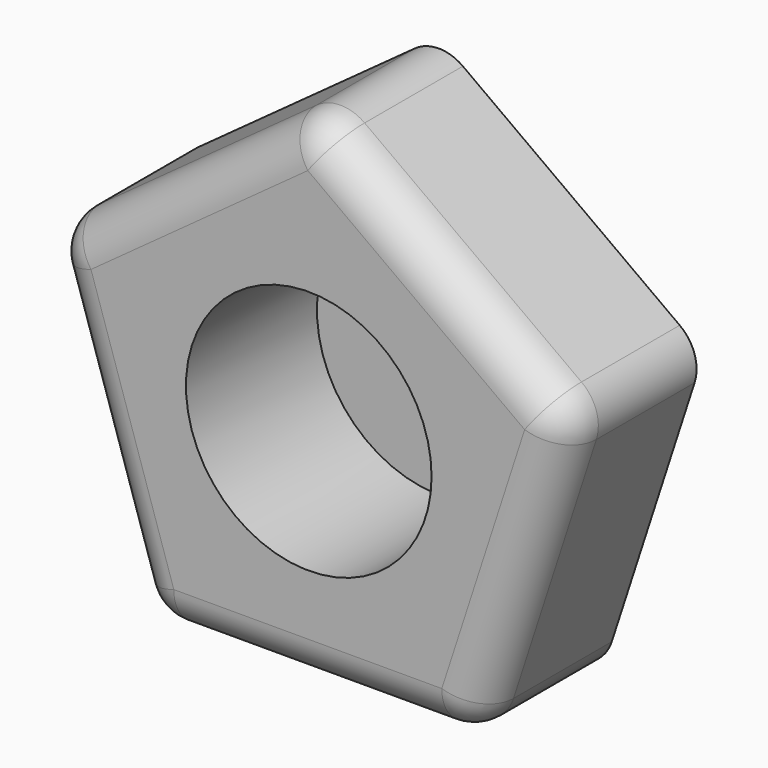
from build123d import *

# Parameters (mm, degrees)
F0_R     = 381
F1_DEPTH = 508
F2_R     = 127
F3_DEPTH = 508
F4_SIZE  = 254


with BuildPart() as f1:
    # F0 (on Front) → F1 (new body)
    with BuildSketch(Plane.XZ):
        Polygon((-508, -699.2020155994), (508, -699.2020155994), (821.9612662849, 267.0714049565), (0, 864.2612212857), (-821.9612662849, 267.0714049565), align=None)
        with Locations((2.955440199, -3.7493463606)):
            Circle(F0_R, mode=Mode.SUBTRACT)
    extrude(amount=F1_DEPTH)

    # F2
    f2_edges = [f1.edges().sort_by_distance(p)[0] for p in [
        (508, -254, -699.202016),
        (821.961266, -254, 267.071405),
        (0, -254, 864.261221),
        (-821.961266, -254, 267.071405),
        (-508, -254, -699.202016),
        (0, -508, -699.202016),
        (664.980633, -508, -216.065305),
        (410.980633, -508, 565.666313),
        (-410.980633, -508, 565.666313),
        (-664.980633, -508, -216.065305),
    ]]
    fillet(f2_edges, radius=F2_R)

    # F0 (on Front) → F3 (join)
    with BuildSketch(Plane.XZ):
        with Locations((2.955440199, -3.7493463606)):
            Circle(F0_R)
    extrude(amount=-F3_DEPTH)

    # F4
    f4_edges = [f1.edges().sort_by_distance(p)[0] for p in [
        (-378.04456, 508, -3.749346),
    ]]
    chamfer(f4_edges, length=F4_SIZE)


solid = f1.part
